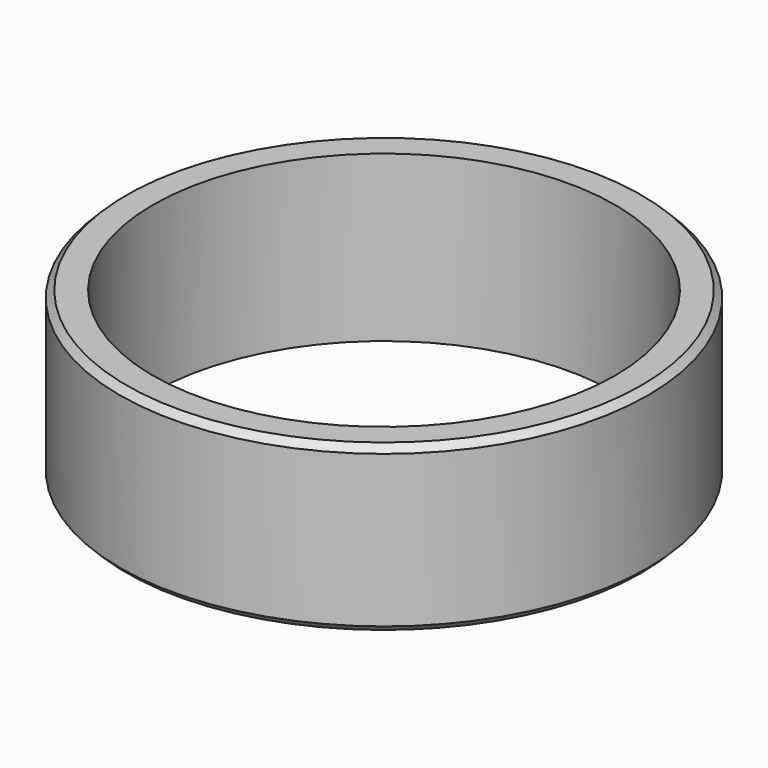
from build123d import *

# Parameters (mm, degrees)
CYLINDER002_R     = 7
CYLINDER002_DEPTH = 5
CYLINDER_R        = 8
CYLINDER_DEPTH    = 5
CHAMFER004_SIZE   = 0.2


with BuildPart() as cilindro:
    # Cylinder002 → Cylinder002 (new body)
    with BuildSketch(Plane.XY):
        Circle(CYLINDER002_R)
    extrude(amount=CYLINDER002_DEPTH)


with BuildPart() as exterior001:
    # Cylinder → Cylinder (new body)
    with BuildSketch(Plane.XY):
        Circle(CYLINDER_R)
    extrude(amount=CYLINDER_DEPTH)

    # Cut: cut Cilindro
    add(cilindro.part, mode=Mode.SUBTRACT)

    # Chamfer004
    chamfer004_edges = [exterior001.edges().sort_by_distance(p)[0] for p in [
        (-8, 0, 5),
        (-8, 0, 0),
    ]]
    chamfer(chamfer004_edges, length=CHAMFER004_SIZE)


solid = exterior001.part
